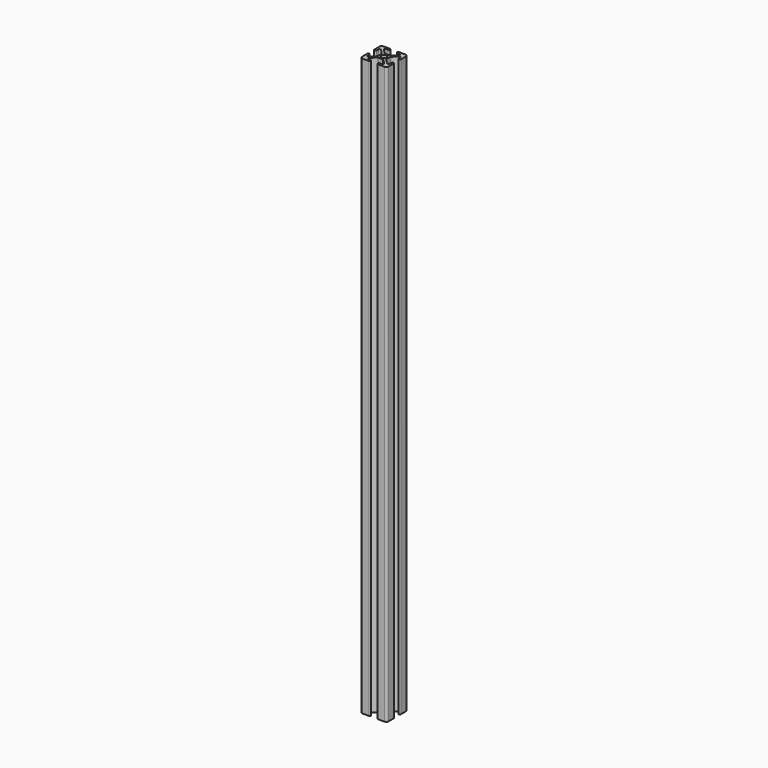
from build123d import *

# Parameters (mm, degrees)
F0_R     = 2.5
F1_DEPTH = 544


with BuildPart() as f1:
    # F0 (on Top) → F1 (new body)
    with BuildSketch(Plane.XY):
        with BuildLine():
            ThreePointArc((-10.36, 12.5), (-11.873209, 11.873209), (-12.5, 10.36))
            Line((-12.5, 10.36), (-12.5, 4.32))
            ThreePointArc((-12.5, 4.32), (-11.43, 3.25), (-10.36, 4.32))
            Line((-10.36, 4.32), (-10.36, 6.263583))
            ThreePointArc((-10.36, 6.263583), (-9.699471, 7.252134), (-8.533396, 7.020187))
            Line((-8.533396, 7.020187), (-4.363396, 2.850187))
            ThreePointArc((-4.363396, 2.850187), (-4.131449, 2.503054), (-4.05, 2.093583))
            Line((-4.05, 2.093583), (-4.05, 0))
            Line((-4.05, 0), (-4.05, -2.093583))
            ThreePointArc((-4.05, -2.093583), (-4.131449, -2.503054), (-4.363396, -2.850187))
            Line((-4.363396, -2.850187), (-8.533396, -7.020187))
            ThreePointArc((-8.533396, -7.020187), (-9.699471, -7.252134), (-10.36, -6.263583))
            Line((-10.36, -6.263583), (-10.36, -4.32))
            ThreePointArc((-10.36, -4.32), (-11.43, -3.25), (-12.5, -4.32))
            Line((-12.5, -4.32), (-12.5, -10.36))
            ThreePointArc((-12.5, -10.36), (-11.873209, -11.873209), (-10.36, -12.5))
            Line((-10.36, -12.5), (-4.32, -12.5))
            ThreePointArc((-4.32, -12.5), (-3.25, -11.43), (-4.32, -10.36))
            Line((-4.32, -10.36), (-6.263583, -10.36))
            ThreePointArc((-6.263583, -10.36), (-7.252134, -9.699471), (-7.020187, -8.533396))
            Line((-7.020187, -8.533396), (-2.850187, -4.363396))
            ThreePointArc((-2.850187, -4.363396), (-2.503054, -4.131449), (-2.093583, -4.05))
            Line((-2.093583, -4.05), (0, -4.05))
            Line((0, -4.05), (2.093583, -4.05))
            ThreePointArc((2.093583, -4.05), (2.503054, -4.131449), (2.850187, -4.363396))
            Line((2.850187, -4.363396), (7.020187, -8.533396))
            ThreePointArc((7.020187, -8.533396), (7.252134, -9.699471), (6.263583, -10.36))
            Line((6.263583, -10.36), (4.32, -10.36))
            ThreePointArc((4.32, -10.36), (3.25, -11.43), (4.32, -12.5))
            Line((4.32, -12.5), (10.36, -12.5))
            ThreePointArc((10.36, -12.5), (11.873209, -11.873209), (12.5, -10.36))
            Line((12.5, -10.36), (12.5, -4.32))
            ThreePointArc((12.5, -4.32), (11.43, -3.25), (10.36, -4.32))
            Line((10.36, -4.32), (10.36, -6.263583))
            ThreePointArc((10.36, -6.263583), (9.699471, -7.252134), (8.533396, -7.020187))
            Line((8.533396, -7.020187), (4.363396, -2.850187))
            ThreePointArc((4.363396, -2.850187), (4.131449, -2.503054), (4.05, -2.093583))
            Line((4.05, -2.093583), (4.05, 0))
            Line((4.05, 0), (4.05, 2.093583))
            ThreePointArc((4.05, 2.093583), (4.131449, 2.503054), (4.363396, 2.850187))
            Line((4.363396, 2.850187), (8.533396, 7.020187))
            ThreePointArc((8.533396, 7.020187), (9.699471, 7.252134), (10.36, 6.263583))
            Line((10.36, 6.263583), (10.36, 4.32))
            ThreePointArc((10.36, 4.32), (11.43, 3.25), (12.5, 4.32))
            Line((12.5, 4.32), (12.5, 10.36))
            ThreePointArc((12.5, 10.36), (11.873209, 11.873209), (10.36, 12.5))
            Line((10.36, 12.5), (4.32, 12.5))
            ThreePointArc((4.32, 12.5), (3.25, 11.43), (4.32, 10.36))
            Line((4.32, 10.36), (6.263583, 10.36))
            ThreePointArc((6.263583, 10.36), (7.252134, 9.699471), (7.020187, 8.533396))
            Line((7.020187, 8.533396), (2.850187, 4.363396))
            ThreePointArc((2.850187, 4.363396), (2.503054, 4.131449), (2.093583, 4.05))
            Line((2.093583, 4.05), (0, 4.05))
            Line((0, 4.05), (-2.093583, 4.05))
            ThreePointArc((-2.093583, 4.05), (-2.503054, 4.131449), (-2.850187, 4.363396))
            Line((-2.850187, 4.363396), (-7.020187, 8.533396))
            ThreePointArc((-7.020187, 8.533396), (-7.252134, 9.699471), (-6.263583, 10.36))
            Line((-6.263583, 10.36), (-4.32, 10.36))
            ThreePointArc((-4.32, 10.36), (-3.25, 11.43), (-4.32, 12.5))
            Line((-4.32, 12.5), (-10.36, 12.5))
        make_face()
        Circle(F0_R, mode=Mode.SUBTRACT)
    extrude(amount=F1_DEPTH)


solid = f1.part
